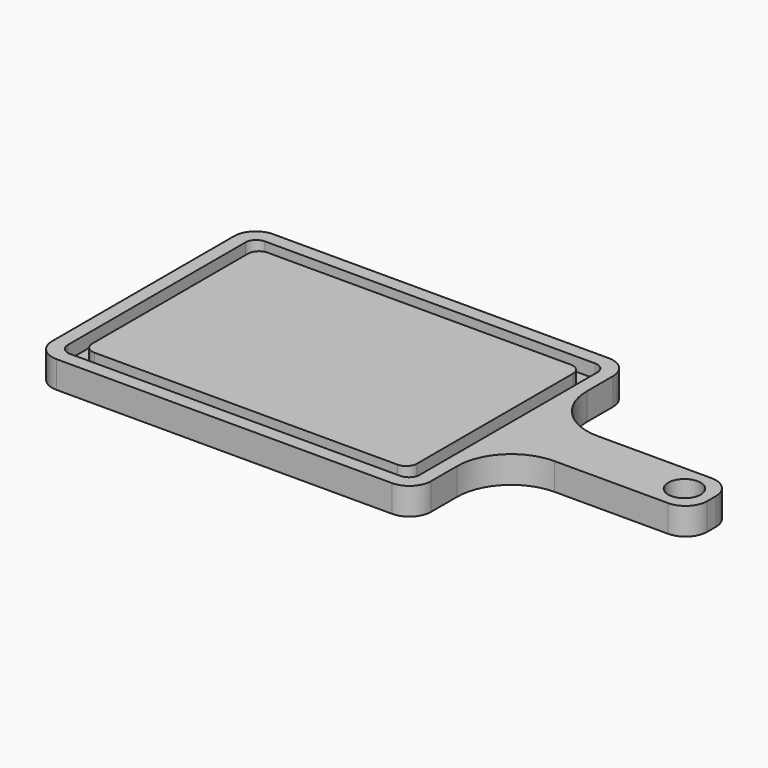
from build123d import *

# Parameters (mm, degrees)
F0_W     = 88.9
F0_H     = 25.4
F1_DEPTH = 12.7
F2_R     = 7.62
F3_DEPTH = 48.26
F5_DEPTH = 6.35
F6_R     = 5.08
F7_R     = 25.4
F8_R     = 10.16


with BuildPart() as f1:
    # F0 (on Top) → F1 (new body)
    with BuildSketch(Plane.XY):
        Polygon((0, 127), (0, 0), (177.8, 0), (177.8, 50.8), (177.8, 76.2), (177.8, 127), align=None)
        with Locations((222.25, 63.5)):
            Rectangle(F0_W, F0_H)
    extrude(amount=F1_DEPTH)

    # F2 (on face) → F3 (cut)
    with BuildSketch(Plane.XY.offset(12.7)):
        with Locations((254, 63.5)):
            Circle(F2_R)
    extrude(amount=-F3_DEPTH, mode=Mode.SUBTRACT)

    # F4 (on face) → F5 (cut)
    with BuildSketch(Plane.XY.offset(12.7)):
        Polygon((171.45, 120.65), (6.35, 120.65), (6.35, 6.35), (171.45, 6.35), (171.45, 50.8), (171.45, 76.2), align=None)
        Polygon((165.1, 12.7), (12.7, 12.7), (12.7, 114.3), (165.1, 114.3), (165.1, 76.2), (165.1, 50.8), align=None, mode=Mode.SUBTRACT)
    extrude(amount=-F5_DEPTH, mode=Mode.SUBTRACT)

    # F6
    f6_edges = [f1.edges().sort_by_distance(p)[0] for p in [
        (6.35, 6.35, 9.525),
        (171.45, 6.35, 9.525),
        (171.45, 120.65, 9.525),
        (6.35, 120.65, 9.525),
        (165.1, 12.7, 9.525),
        (165.1, 114.3, 9.525),
        (12.7, 114.3, 9.525),
        (12.7, 12.7, 9.525),
    ]]
    fillet(f6_edges, radius=F6_R)

    # F7
    f7_edges = [f1.edges().sort_by_distance(p)[0] for p in [
        (177.8, 50.8, 6.35),
        (177.8, 76.2, 6.35),
    ]]
    fillet(f7_edges, radius=F7_R)

    # F8
    f8_edges = [f1.edges().sort_by_distance(p)[0] for p in [
        (266.7, 50.8, 6.35),
        (266.7, 76.2, 6.35),
        (177.8, 0, 6.35),
        (177.8, 127, 6.35),
        (0, 127, 6.35),
        (0, 0, 6.35),
    ]]
    fillet(f8_edges, radius=F8_R)


solid = f1.part
